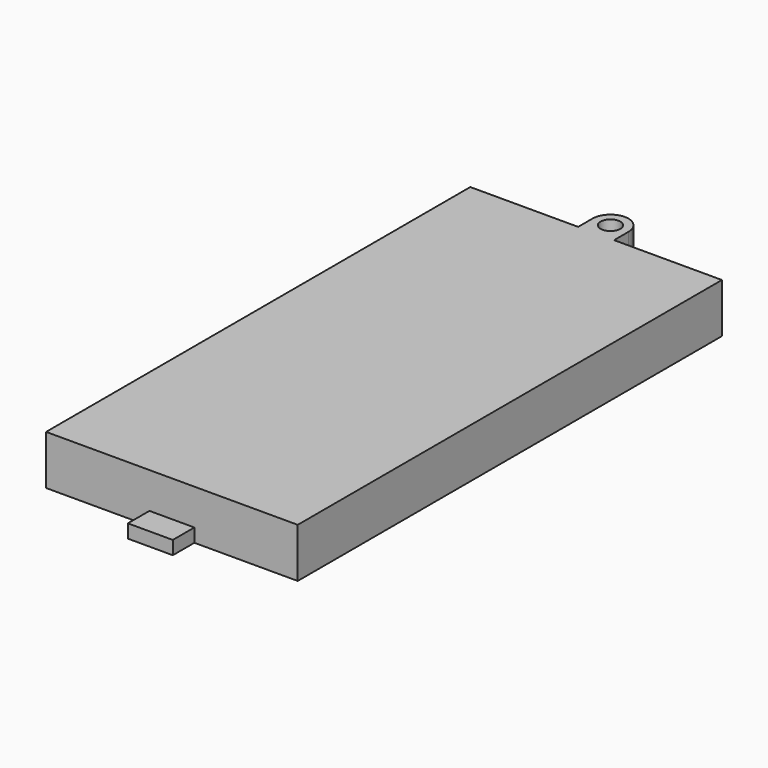
from build123d import *

# Parameters (mm, degrees)
F0_W     = 28
F0_H     = 59
F1_DEPTH = 5.5
F2_W     = 5
F2_H     = 3
F3_DEPTH = 1.5
F4_W     = 4
F4_H     = 2
F5_DEPTH = 4
F6_D     = 2.2
F6_DEPTH = 5


with BuildPart() as f1:
    # F0 (on Top) → F1 (new body)
    with BuildSketch(Plane.XY):
        Rectangle(F0_W, F0_H)
    extrude(amount=F1_DEPTH)

    # F2 (on Top) → F3 (join)
    with BuildSketch(Plane.XY):
        with Locations((0, -31)):
            Rectangle(F2_W, F2_H)
    extrude(amount=F3_DEPTH)

    # F4 (on face) → F5 (join)
    with BuildSketch(Plane.XY.offset(5.5)):
        with Locations((0, 30.5)):
            Rectangle(F4_W, F4_H)
        with BuildLine():
            ThreePointArc((2, 31.5), (0, 33.5), (-2, 31.5))
            Line((-2, 31.5), (2, 31.5))
        make_face()
    extrude(amount=-F5_DEPTH)

    # F6
    with Locations(Plane.XY.offset(5.5)):
        with Locations((0, 31.5)):
            Hole(F6_D / 2, depth=F6_DEPTH)


solid = f1.part
